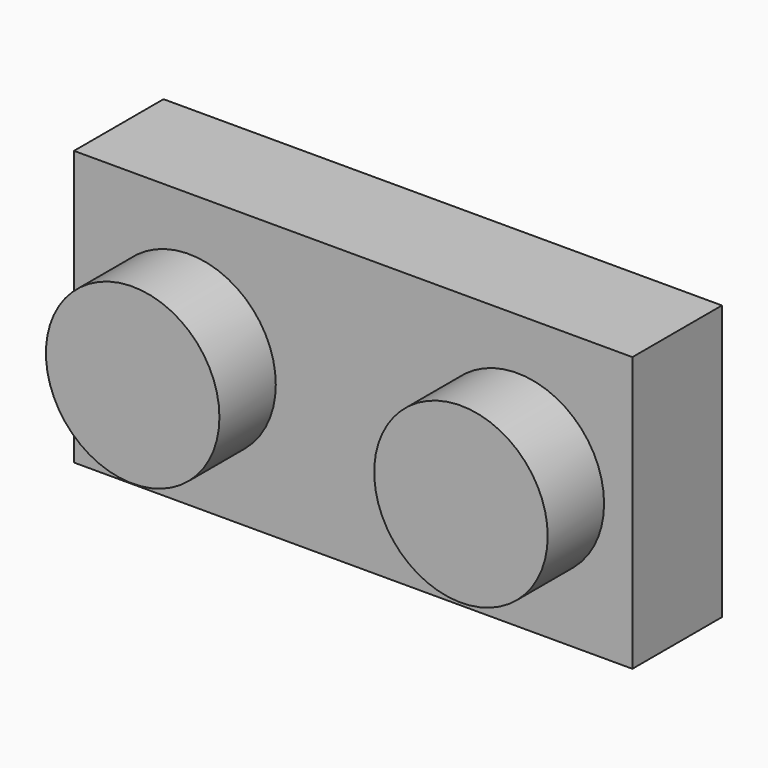
from build123d import *

# Parameters (mm, degrees)
F0_W     = 15.77
F0_H     = 7.75
F1_DEPTH = 3.16
F2_R     = 2.45
F3_DEPTH = 1.99
F4_T     = -1.55
F5_R     = 1.2096188734
F5_R_2   = 0.9825120615
F6_DEPTH = 2


with BuildPart() as f1:
    # F0 (on Front) → F1 (new body)
    with BuildSketch(Plane.XZ):
        with Locations((-7.885, 3.875)):
            Rectangle(F0_W, F0_H)
    extrude(amount=F1_DEPTH)

    # F2 (on face) → F3 (join)
    with BuildSketch(Plane.XZ.offset(3.16)):
        with Locations((-12.5210902126, 3.7908264088)):
            Circle(F2_R)
        with Locations((-3.25, 3.8467605594)):
            Circle(F2_R)
    extrude(amount=F3_DEPTH)

    # F4
    f4_openings = [f1.faces().sort_by_distance(p)[0] for p in [
        (-7.885, 0, 3.875),
    ]]
    offset(amount=F4_T, openings=f4_openings, kind=Kind.INTERSECTION)

    # F5 (on Front) → F6 (join)
    with BuildSketch(Plane.XZ):
        with Locations((-7.8559592366, 3.8379097823)):
            Circle(F5_R)
        with Locations((-7.8559592366, 3.8379097823)):
            Circle(F5_R_2, mode=Mode.SUBTRACT)
    extrude(amount=F6_DEPTH)


solid = f1.part
